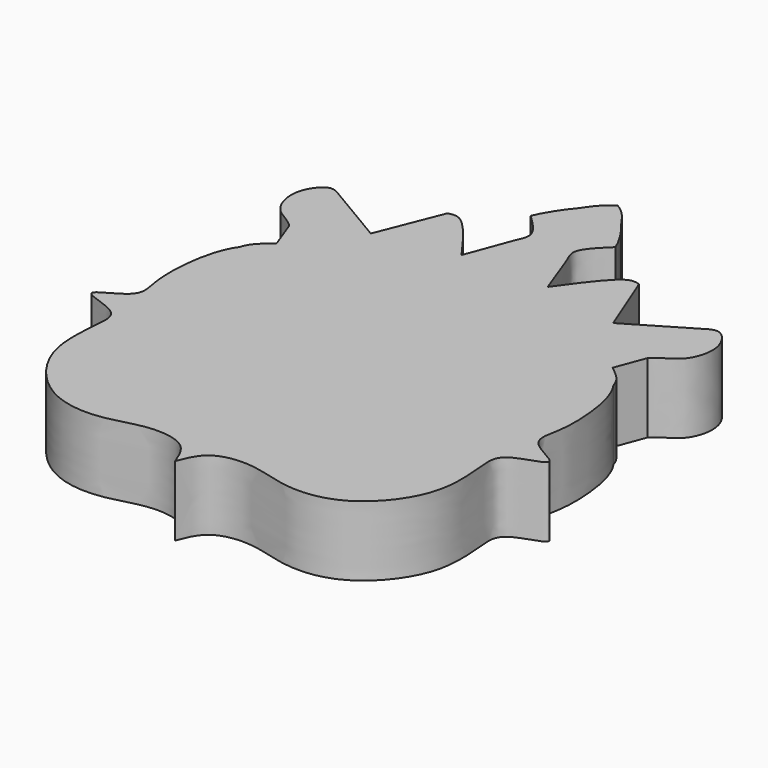
from build123d import *

# Parameters (mm, degrees)
F1_DEPTH = 10


with BuildPart() as f1:
    # F0 (on Top) → F1 (new body)
    with BuildSketch(Plane.XY):
        with BuildLine():
            add(Edge.make_bspline(
                [(0, -34.2062674463), (-0.4857172858, -32.9253363904), (-1.6281607267, -29.9902648811), (-7.6826702938, -29.3020653717), (-13.1580326732, -31.5823631299), (-21.4809586399, -30.9013561211), (-28.4046745975, -22.3100596991), (-27.4200402382, -14.0628969331), (-27.18769514, -9.7846433876), (-35.4580717272, -8.5090142997), (-27.7245712557, -5.9325985302), (-28.9542455468, -1.88885631), (-29.1440025079, 3.3887791633), (-28.0991021316, 8.8595352662), (-26.7727613132, 10.6461561697), (-26.7686468267, 10.6516777522)],
                knots=[0, 0, 0, 0, 0.0503872764, 0.1077769852, 0.1687566312, 0.2378786464, 0.3171683766, 0.3879585329, 0.4352760339, 0.4895185711, 0.5425104449, 0.5890825541, 0.6477157523, 0.7159279661, 0.7161398545, 0.7161398545, 0.7161398545, 0.7161398545], degree=3))
            add(Edge.make_bspline(
                [(0, -34.2062674463), (0.4857172858, -32.9253363904), (1.6281607267, -29.9902648811), (7.6826702938, -29.3020653717), (13.1580326732, -31.5823631299), (21.4809586399, -30.9013561211), (28.4046745975, -22.3100596991), (27.4200402382, -14.0628969331), (27.18769514, -9.7846433876), (35.4580717272, -8.5090142997), (27.7245712557, -5.9325985302), (28.9542455468, -1.88885631), (29.1440025079, 3.3887791633), (28.0991021316, 8.8595352662), (26.7727613132, 10.6461561697), (26.7686468267, 10.6516777522)],
                knots=[0, 0, 0, 0, 0.0503872764, 0.1077769852, 0.1687566312, 0.2378786464, 0.3171683766, 0.3879585329, 0.4352760339, 0.4895185711, 0.5425104449, 0.5890825541, 0.6477157523, 0.7159279661, 0.7161398545, 0.7161398545, 0.7161398545, 0.7161398545], degree=3))
            add(Edge.make_bspline(
                [(26.7686468267, 10.6516777522), (25.7698232697, 11.9920848111), (24.3457705657, 12.6822114993), (24.0297671407, 13.9366565272)],
                knots=[0.7161398545, 0.7161398545, 0.7161398545, 0.7161398545, 0.767577425, 0.767577425, 0.767577425, 0.767577425], degree=3))
            add(Edge.make_bspline(
                [(24.0297671407, 13.9366565272), (23.7075946583, 15.2155909843), (24.5371566941, 17.0810922335), (25.6242467432, 18.2132167257)],
                knots=[0.767577425, 0.767577425, 0.767577425, 0.767577425, 0.8200191661, 0.8200191661, 0.8200191661, 0.8200191661], degree=3))
            add(Edge.make_bspline(
                [(25.6242467432, 18.2132167257), (25.6551211504, 18.2453701546), (26.7201344171, 19.3268215737), (29.3675670173, 20.050956382), (30.7949551061, 25.2841119289), (28.1256573725, 28.5510185008), (27.0656669453, 28.1188642743), (26.6665238887, 27.9565546662)],
                knots=[0.8200191661, 0.8200191661, 0.8200191661, 0.8200191661, 0.8215085622, 0.8710525552, 0.9251738964, 0.9718648433, 1, 1, 1, 1], degree=3))
            Line((26.6665238887, 27.9565546662), (17.3341929913, 22.420424968))
            Line((17.3341929913, 22.420424968), (13.6961648241, 31.594581902))
            add(Edge.make_bspline(
                [(13.6961648241, 31.594581902), (13.2100258918, 31.7110322733), (11.8988897962, 32.0251035706), (8.7934988862, 28.3453498385), (7.0492182939, 25.9179502929), (6.1614066362, 24.6824417263)],
                knots=[0, 0, 0, 0, 0.2244072785, 0.6052353831, 1, 1, 1, 1], degree=3))
            add(Edge.make_bspline(
                [(6.1614066362, 24.6824417263), (5.3097939501, 26.9886685737), (3.9282699085, 31.0093721617), (2.5583786422, 33.5594659229), (5.017939865, 35.91362879), (6.0629243962, 36.9133129716)],
                knots=[0, 0, 0, 0, 0.4172457461, 0.6654812964, 1, 1, 1, 1], degree=3))
            add(Edge.make_bspline(
                [(6.0629243962, 36.9133129716), (5.7311058146, 37.8123222775), (4.1150409211, 40.5206419987), (2.9567172237, 41.6425224356), (1.6517017879, 43.9707103172), (0, 44.910710305)],
                knots=[0, 0, 0, 0, 0.366400172, 0.6123542549, 1, 1, 1, 1], degree=3))
            add(Edge.make_bspline(
                [(-6.0629243962, 36.9133129716), (-5.7311058146, 37.8123222775), (-4.1150409211, 40.5206419987), (-2.9567172237, 41.6425224356), (-1.6517017879, 43.9707103172), (0, 44.910710305)],
                knots=[0, 0, 0, 0, 0.366400172, 0.6123542549, 1, 1, 1, 1], degree=3))
            add(Edge.make_bspline(
                [(-6.1614066362, 24.6824417263), (-5.3097939501, 26.9886685737), (-3.9282699085, 31.0093721617), (-2.5583786422, 33.5594659229), (-5.017939865, 35.91362879), (-6.0629243962, 36.9133129716)],
                knots=[0, 0, 0, 0, 0.4172457461, 0.6654812964, 1, 1, 1, 1], degree=3))
            add(Edge.make_bspline(
                [(-13.6961648241, 31.594581902), (-13.2100258918, 31.7110322733), (-11.8988897962, 32.0251035706), (-8.7934988862, 28.3453498385), (-7.0492182939, 25.9179502929), (-6.1614066362, 24.6824417263)],
                knots=[0, 0, 0, 0, 0.2244072785, 0.6052353831, 1, 1, 1, 1], degree=3))
            Line((-13.6961648241, 31.594581902), (-17.3341929913, 22.420424968))
            Line((-17.3341929913, 22.420424968), (-26.6665238887, 27.9565546662))
            add(Edge.make_bspline(
                [(-25.6242467432, 18.2132167257), (-25.6551211504, 18.2453701546), (-26.7201344171, 19.3268215737), (-29.3675670173, 20.050956382), (-30.7949551061, 25.2841119289), (-28.1256573725, 28.5510185008), (-27.0656669453, 28.1188642743), (-26.6665238887, 27.9565546662)],
                knots=[0.8200191661, 0.8200191661, 0.8200191661, 0.8200191661, 0.8215085622, 0.8710525552, 0.9251738964, 0.9718648433, 1, 1, 1, 1], degree=3))
            add(Edge.make_bspline(
                [(-24.0297671407, 13.9366565272), (-23.7075946583, 15.2155909843), (-24.5371566941, 17.0810922335), (-25.6242467432, 18.2132167257)],
                knots=[0.767577425, 0.767577425, 0.767577425, 0.767577425, 0.8200191661, 0.8200191661, 0.8200191661, 0.8200191661], degree=3))
            add(Edge.make_bspline(
                [(-26.7686468267, 10.6516777522), (-25.7698232697, 11.9920848111), (-24.3457705657, 12.6822114993), (-24.0297671407, 13.9366565272)],
                knots=[0.7161398545, 0.7161398545, 0.7161398545, 0.7161398545, 0.767577425, 0.767577425, 0.767577425, 0.767577425], degree=3))
        make_face()
        with BuildLine():
            add(Edge.make_bspline(
                [(-26.7686468267, 10.6516777522), (-26.5887010399, 11.1379432544), (-26.1753154819, 12.2550305387), (-24.8040972467, 13.3297563633), (-24.0297671407, 13.9366565272)],
                knots=[0, 0, 0, 0, 0.4352976851, 1, 1, 1, 1], degree=3))
            add(Edge.make_bspline(
                [(-26.7686468267, 10.6516777522), (-25.7698232697, 11.9920848111), (-24.3457705657, 12.6822114993), (-24.0297671407, 13.9366565272)],
                knots=[0.7161398545, 0.7161398545, 0.7161398545, 0.7161398545, 0.767577425, 0.767577425, 0.767577425, 0.767577425], degree=3))
        make_face()
        with BuildLine():
            add(Edge.make_bspline(
                [(26.7686468267, 10.6516777522), (25.7698232697, 11.9920848111), (24.3457705657, 12.6822114993), (24.0297671407, 13.9366565272)],
                knots=[0.7161398545, 0.7161398545, 0.7161398545, 0.7161398545, 0.767577425, 0.767577425, 0.767577425, 0.767577425], degree=3))
            add(Edge.make_bspline(
                [(26.7686468267, 10.6516777522), (26.5887010399, 11.1379432544), (26.1753154819, 12.2550305387), (24.8040972467, 13.3297563633), (24.0297671407, 13.9366565272)],
                knots=[0, 0, 0, 0, 0.4352976851, 1, 1, 1, 1], degree=3))
        make_face()
        with BuildLine():
            Line((-25.6242467432, 18.2132167257), (-24.0297671407, 13.9366565272))
            add(Edge.make_bspline(
                [(-24.0297671407, 13.9366565272), (-23.7075946583, 15.2155909843), (-24.5371566941, 17.0810922335), (-25.6242467432, 18.2132167257)],
                knots=[0.767577425, 0.767577425, 0.767577425, 0.767577425, 0.8200191661, 0.8200191661, 0.8200191661, 0.8200191661], degree=3))
        make_face()
        with BuildLine():
            add(Edge.make_bspline(
                [(24.0297671407, 13.9366565272), (23.7075946583, 15.2155909843), (24.5371566941, 17.0810922335), (25.6242467432, 18.2132167257)],
                knots=[0.767577425, 0.767577425, 0.767577425, 0.767577425, 0.8200191661, 0.8200191661, 0.8200191661, 0.8200191661], degree=3))
            Line((24.0297671407, 13.9366565272), (25.6242467432, 18.2132167257))
        make_face()
    extrude(amount=F1_DEPTH)


solid = f1.part
